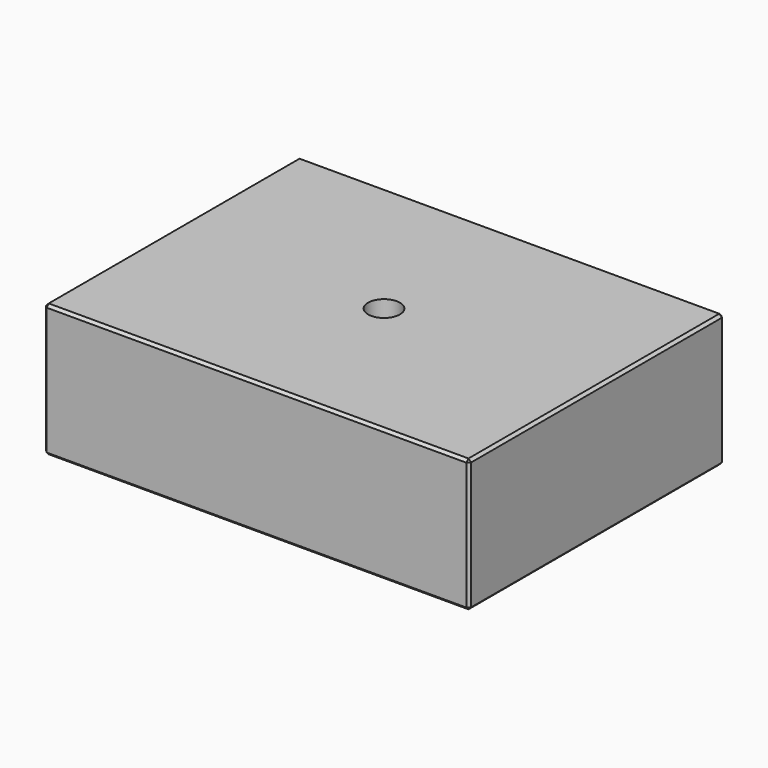
from build123d import *

# Parameters (mm, degrees)
SKETCH_W     = 80
SKETCH_H     = 60
PAD_DEPTH    = 25
SKETCH001_R  = 3
POCKET_DEPTH = 25.001
CHAMFER_SIZE = 0.5


with BuildPart() as part:
    # Sketch → Pad (new body)
    with BuildSketch(Plane.XY):
        Rectangle(SKETCH_W, SKETCH_H)
    extrude(amount=PAD_DEPTH)

    # Sketch001 → Pocket (cut, through all)
    with BuildSketch(Plane.XY):
        Circle(SKETCH001_R)
    extrude(amount=POCKET_DEPTH, mode=Mode.SUBTRACT)

    # Chamfer
    chamfer_edges = [part.edges().sort_by_distance(p)[0] for p in [
        (-40, -30, 12.5),
        (40, -30, 12.5),
        (0, -30, 0),
        (0, -30, 25),
        (40, 30, 12.5),
        (40, 0, 0),
        (40, 0, 25),
        (-40, 30, 12.5),
        (-40, 0, 0),
        (-40, 0, 25),
        (0, 30, 0),
        (0, 30, 25),
    ]]
    chamfer(chamfer_edges, length=CHAMFER_SIZE)


solid = part.part
